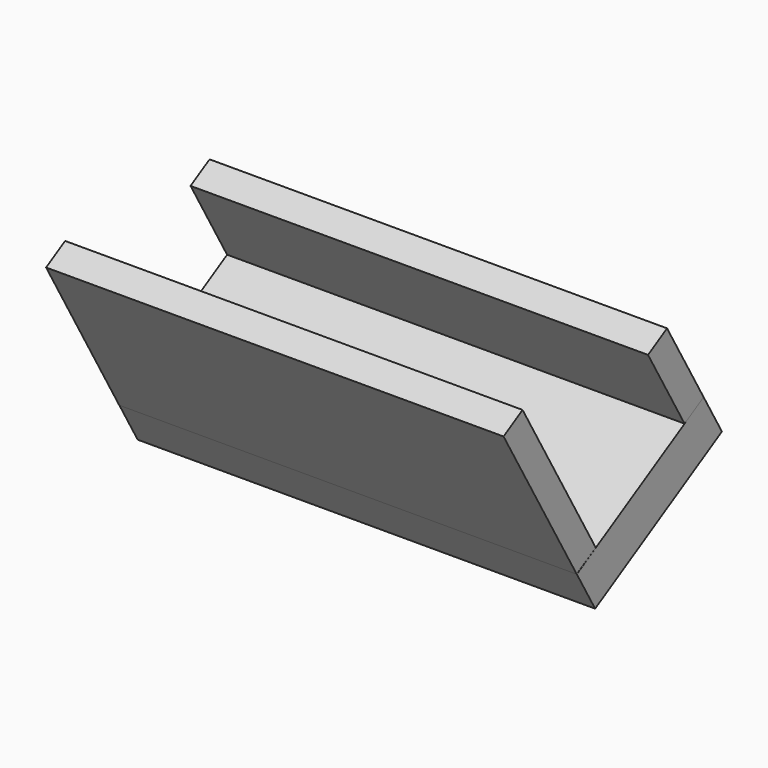
from build123d import *

# Parameters (mm, degrees)
SKETCH051_W             = 50
SKETCH051_H             = 20
PAD050_DEPTH            = 5
SKETCH052_W             = 50
SKETCH052_H             = 3
PAD051_DEPTH            = 20
SKETCH053_W             = 50
SKETCH053_H             = 10
PAD052_DEPTH            = 3
BODY041_PLACEMENT_ANGLE = 30


with BuildPart() as part:
    # Sketch051 → Pad050 (new body)
    with BuildSketch(Plane.XY):
        with Locations((184.845276, -123.914059)):
            Rectangle(SKETCH051_W, SKETCH051_H)
    extrude(amount=PAD050_DEPTH)

    # Sketch052 (on Face6 of Pad050) → Pad051 (join)
    with BuildSketch(Plane.XY.offset(5)):
        with Locations((184.83606, -132.417099)):
            Rectangle(SKETCH052_W, SKETCH052_H)
    extrude(amount=PAD051_DEPTH)

    # Sketch053 (on Face7 of Pad051) → Pad052 (join)
    with BuildSketch(Plane(origin=(0, -113.914059, 0), x_dir=(-1, 0, 0), z_dir=(0, 1, 0))):
        with Locations((-184.841869, 9.989668)):
            Rectangle(SKETCH053_W, SKETCH053_H)
    extrude(amount=-PAD052_DEPTH)


with BuildPart() as part_1:
    # Body041 placement: moved
    add(part.part.moved(Location((-180.1, 172.766257, 123.466258))).rotate(Axis((-180.1, 172.766257, 123.466258), (1, 0, 0)), BODY041_PLACEMENT_ANGLE))


solid = part_1.part
